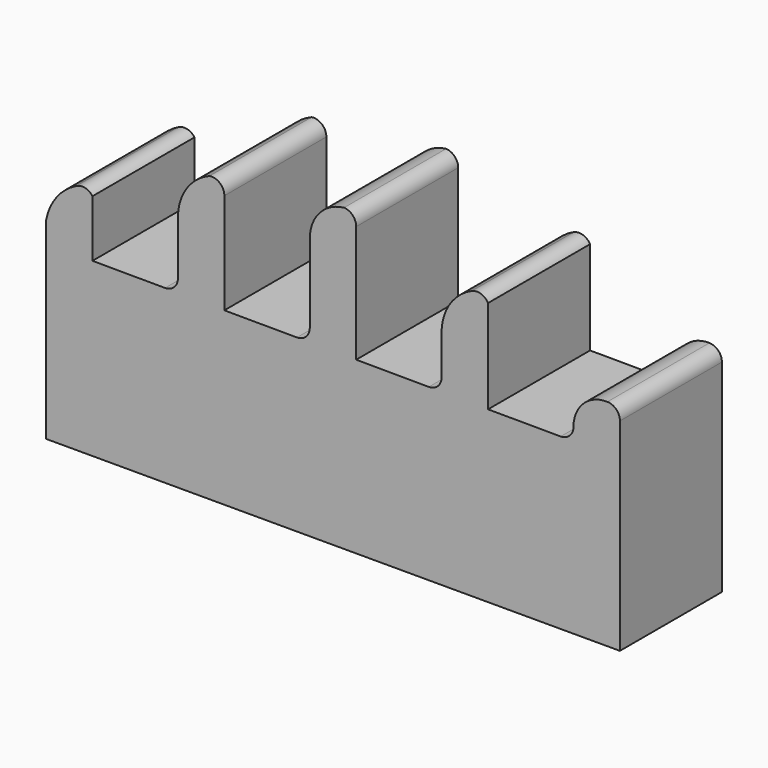
from build123d import *

# Parameters (mm, degrees)
F1_DEPTH = 12.7


with BuildPart() as f1:
    # F0 (on Front) → F1 (new body)
    with BuildSketch(Plane.XZ):
        with BuildLine():
            Line((-65.538363, 0), (-8.388363, 0))
            Line((-8.388363, 0), (-8.388363, 20.161502))
            ThreePointArc((-8.388363, 20.161502), (-8.751595, 21.050699), (-9.633515, 21.431259))
            ThreePointArc((-9.633515, 21.431259), (-12.016057, 20.502552), (-13.011163, 18.146971))
            ThreePointArc((-13.011163, 18.146971), (-13.385056, 17.247031), (-14.286584, 16.876982))
            Line((-14.286584, 16.876982), (-21.520163, 16.907856))
            Line((-21.520163, 16.907856), (-21.520163, 26.226959))
            ThreePointArc((-21.520163, 26.226959), (-22.228183, 26.805549), (-23.141338, 26.758603))
            ThreePointArc((-23.141338, 26.758603), (-25.250285, 25.008219), (-26.142963, 22.416959))
            Line((-26.142963, 22.416959), (-26.142963, 18.219505))
            ThreePointArc((-26.142963, 18.219505), (-26.517394, 17.31903), (-27.419901, 16.949524))
            Line((-27.419901, 16.949524), (-34.651963, 16.989035))
            Line((-34.651963, 16.989035), (-34.651963, 28.657689))
            ThreePointArc((-34.651963, 28.657689), (-35.000847, 29.532014), (-35.855814, 29.925965))
            ThreePointArc((-35.855814, 29.925965), (-38.303755, 28.664634), (-39.274763, 26.087714))
            Line((-39.274763, 26.087714), (-39.274763, 18.287121))
            ThreePointArc((-39.274763, 18.287121), (-39.64857, 17.387266), (-40.549941, 17.017131))
            Line((-40.549941, 17.017131), (-47.783763, 17.046624))
            Line((-47.783763, 17.046624), (-47.783763, 27.09222))
            ThreePointArc((-47.783763, 27.09222), (-48.225379, 28.054861), (-49.2431, 28.348027))
            ThreePointArc((-49.2431, 28.348027), (-51.511945, 26.548716), (-52.406563, 23.794658))
            Line((-52.406563, 23.794658), (-52.406563, 18.356505))
            ThreePointArc((-52.406563, 18.356505), (-52.78037, 17.45665), (-53.681741, 17.086515))
            Line((-53.681741, 17.086515), (-60.915563, 17.116008))
            Line((-60.915563, 17.116008), (-60.915563, 22.783394))
            ThreePointArc((-60.915563, 22.783394), (-61.655936, 23.268072), (-62.533138, 23.151538))
            ThreePointArc((-62.533138, 23.151538), (-64.503437, 21.515644), (-65.538363, 19.173175))
            Line((-65.538363, 19.173175), (-65.538363, 0))
        make_face()
    extrude(amount=F1_DEPTH)


solid = f1.part
